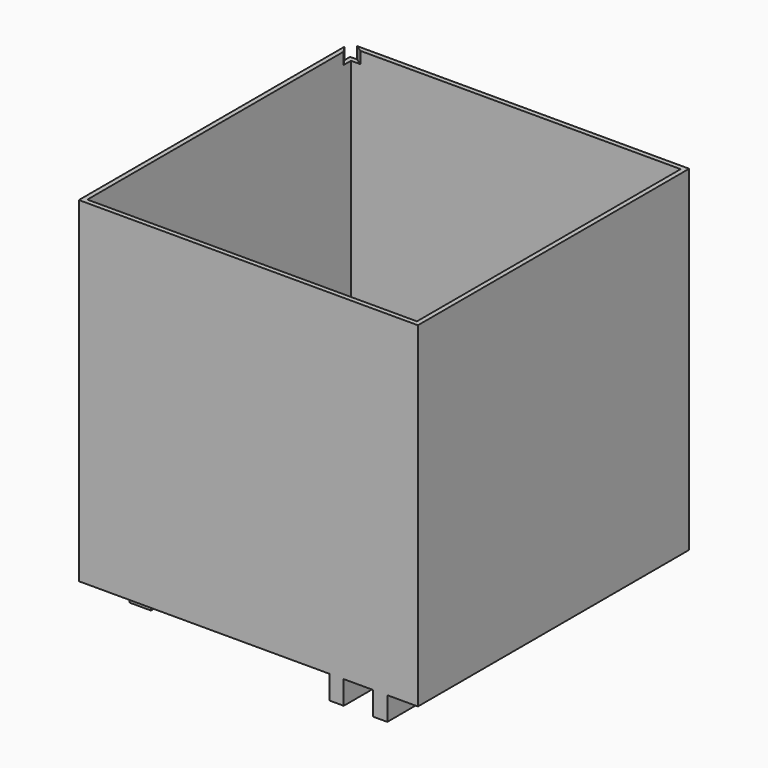
from build123d import *

# Parameters (mm, degrees)
F0_W      = 144
F0_H      = 144
F1_DEPTH  = 25
F2_DEPTH  = 142.55
F3_T      = -2
F1_FACE_W = 144
F1_FACE_H = 144
F11_DEPTH = 5
F12_W     = 2
F12_H     = 2
F13_DEPTH = 130
F14_W     = 6
F14_H     = 144
F15_DEPTH = 10
F16_W     = 9
F16_H     = 9
F17_DEPTH = 9


with BuildPart() as f1:
    # F0 (on Top) → F1 (new body)
    with BuildSketch(Plane.XY):
        with Locations((-72, 72)):
            Rectangle(F0_W, F0_H)
    extrude(amount=F1_DEPTH)

    # F0 (on Top) → F2 (join)
    with BuildSketch(Plane.XY):
        with Locations((-72, 72)):
            Rectangle(F0_W, F0_H)
    extrude(amount=F2_DEPTH)

    # F3
    f3_openings = [f1.faces().sort_by_distance(p)[0] for p in [
        (-72, 72, 142.55),
    ]]
    offset(amount=F3_T, openings=f3_openings)

    # F1_face (on face) → F9 section 0
    with BuildSketch(Plane(origin=(-72, 72, 0), x_dir=(1, 0, 0), z_dir=(0, 0, -1))):
        Rectangle(F1_FACE_W, F1_FACE_H)
    # F8 (on 3pt) → F9 section 1
    with BuildSketch(Plane(origin=(0.0661577608, -0.0661577608, 1.8524173028), x_dir=(0.9993636652, 0.0012730747, -0.0356460925), z_dir=(-0.0356688188, 0.0356688188, -0.998726925))):
        Polygon((-2.067473366, -142.1593660309), (-2.067473366, -2.0701087697), (-142.1566169599, -2.2485664223), (-142.1566169599, -142.3378236835), align=None)
    loft()

    # F10 (on face) → F11 (cut)
    with BuildSketch(Plane.XY.offset(142.55)):
        Polygon((-142, 142), (-138, 142), (-141, 144), (-144, 144), (-144, 141), (-142, 138), align=None)
    extrude(amount=-F11_DEPTH, mode=Mode.SUBTRACT)

    # F12 (on face) → F13 (join)
    with BuildSketch(Plane.XY.offset(137.55)):
        with Locations((-140, 145)):
            Rectangle(F12_W, F12_H)
        with Locations((-145, 140)):
            Rectangle(F12_W, F12_H)
    extrude(amount=-F13_DEPTH)

    # F14 (on face) → F15 (join)
    with BuildSketch(Plane(origin=(0, 0, 0), x_dir=(1, 0, 0), z_dir=(0, 0, -1))):
        with Locations((-16, -72)):
            Rectangle(F14_W, F14_H)
        with Locations((-34.5, -72)):
            Rectangle(F14_W, F14_H)
    extrude(amount=F15_DEPTH)

    # F16 (on face) → F17 (join)
    with BuildSketch(Plane(origin=(0, 0, 0), x_dir=(1, 0, 0), z_dir=(0, 0, -1))):
        with Locations((-127.5, -127.5)):
            Rectangle(F16_W, F16_H)
        with Locations((-127.5, -16.5)):
            Rectangle(F16_W, F16_H)
    extrude(amount=F17_DEPTH)


solid = f1.part
